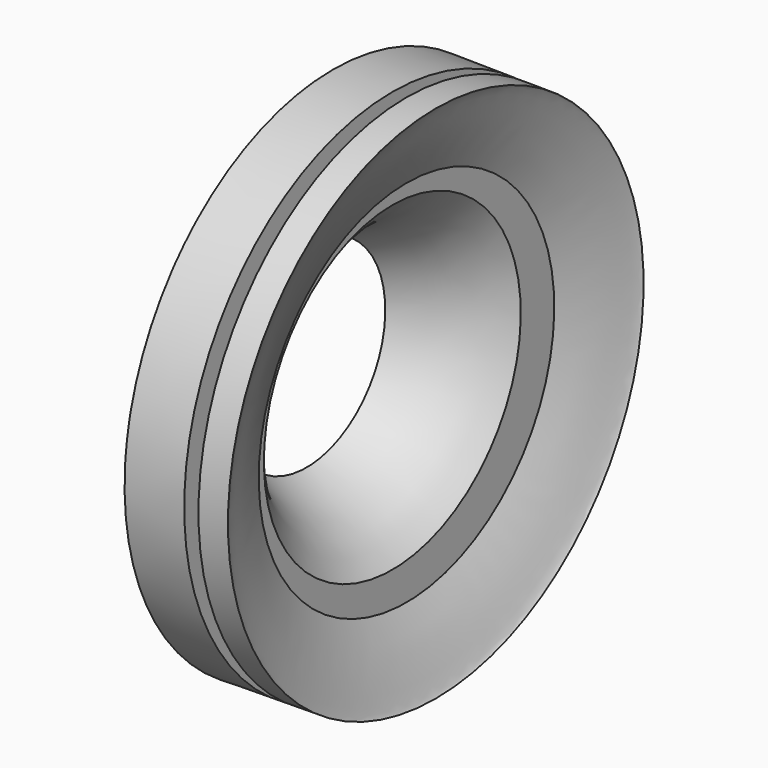
from build123d import *


with BuildPart() as f1:
    # F0 (on Front) → F1 (revolve)
    with BuildSketch(Plane.XZ):
        with BuildLine():
            add(Edge.make_bspline(
                [(0, 39.9668887258), (3.2281963617, 43.6274968822), (11.7154557843, 53.2516112749), (9.6378120579, 104.3193382547), (10.6701239788, 105.648029349), (10.8098071069, 105.8278158307)],
                knots=[0, 0, 0, 0, 0.3467366807, 0.9116063061, 1, 1, 1, 1], degree=3))
            add(Edge.make_bspline(
                [(0, 39.9668887258), (12.812980549, 46.1363323304), (25.625961098, 52.3057759351), (34.8370088305, 65.1767049925)],
                knots=[0, 0, 0, 0, 0.4517491272, 0.4517491272, 0.4517491272, 0.4517491272], degree=3))
            Line((34.8370088305, 65.1767049925), (34.8370088305, 105.6113669327))
            Line((34.8370088305, 105.6113669327), (10.8098071069, 105.8278158307))
        make_face()
    revolve(axis=Axis((37.9028692842, 0, 0), (1, 0, 0)))


with BuildPart() as f1b:
    # F0 (on Front) → F1, piece 2 (revolve)
    with BuildSketch(Plane.XZ):
        with BuildLine():
            Line((40.5912317444, 105.5595300513), (40.5912317444, 74.9732504654))
            add(Edge.make_bspline(
                [(40.5912317444, 74.9732504654), (46.6228561766, 87.2037272928), (51.0962867375, 104.1883923905), (52.255172043, 105.2563369528), (52.4680800736, 105.4525375366)],
                knots=[0.5554017202, 0.5554017202, 0.5554017202, 0.5554017202, 0.9183193162, 1, 1, 1, 1], degree=3))
            Line((52.4680800736, 105.4525375366), (40.5912317444, 105.5595300513))
        make_face()
    revolve(axis=Axis((37.9028692842, 0, 0), (1, 0, 0)))


solid = Compound([f1.part, f1b.part])
